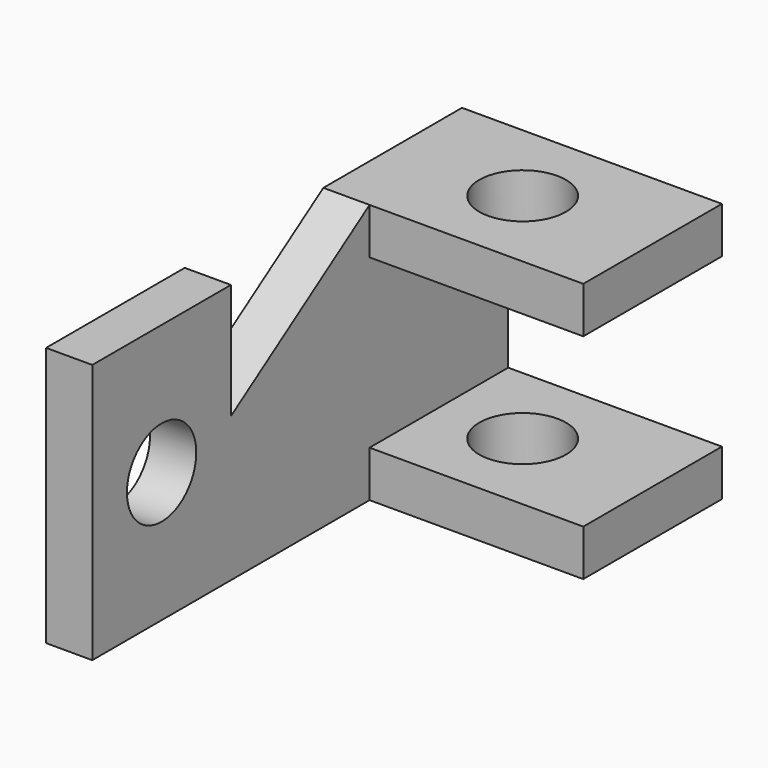
from build123d import *

# Parameters (mm, degrees)
F1_DEPTH = 8
F2_W     = 30
F2_H     = 8
F3_DEPTH = 37
F5_D     = 15
F7_D     = 15


with BuildPart() as f1:
    # F0 (on Right) → F1 (new body)
    with BuildSketch(Plane.YZ):
        Polygon((-30, 24.308511), (-60, 24.308511), (-60, -20.691489), (30, -20.691489), (30, 24.308511), (0, 24.308511), (-30, 4.308511), align=None)
    extrude(amount=F1_DEPTH)

    # F2 (on face) → F3 (join)
    with BuildSketch(Plane.YZ.offset(8)):
        with Locations((15, -16.691489)):
            Rectangle(F2_W, F2_H)
        with Locations((15, 20.308511)):
            Rectangle(F2_W, F2_H)
    extrude(amount=F3_DEPTH)

    # F5 (through all)
    with Locations(Plane.XY.offset(24.308511)):
        with Locations((22.5, 15)):
            Hole(F5_D / 2)

    # F7 (through all)
    with Locations(Plane.YZ.offset(8)):
        with Locations((-45, 1.808511)):
            Hole(F7_D / 2)


solid = f1.part
